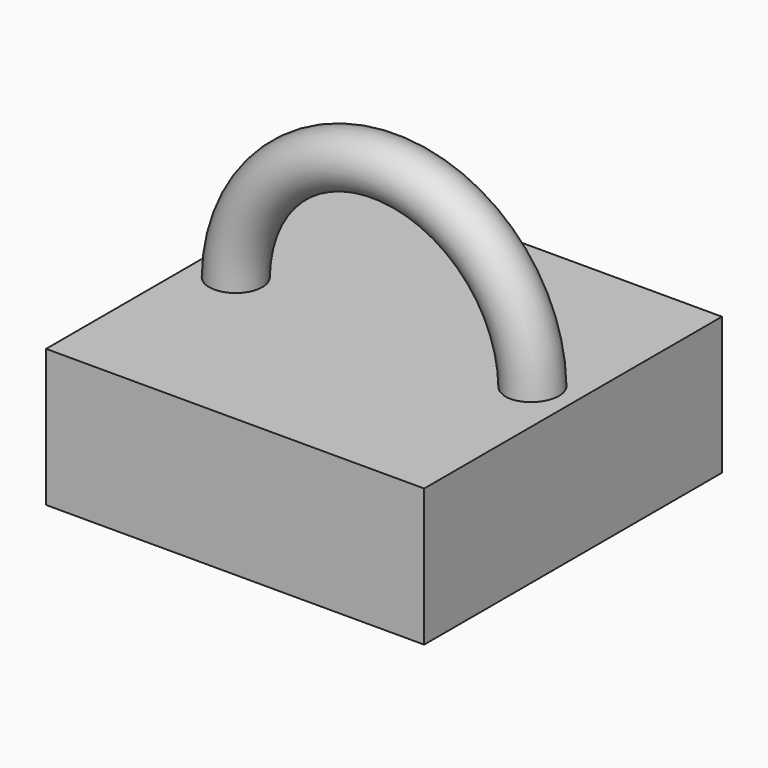
from build123d import *

# Parameters (mm, degrees)
F0_W     = 69.863096
F0_H     = 137.526572
F1_DEPTH = 50.8
F2_R     = 9.824635


with BuildPart() as f1:
    # F0 (on Top) → F1 (new body)
    with BuildSketch(Plane.XY):
        with Locations((-34.931548, 0)):
            Rectangle(F0_W, F0_H)
        with Locations((34.931548, 0)):
            Rectangle(F0_W, F0_H)
    extrude(amount=-F1_DEPTH)

    # F4: sweep along a path in F3
    with BuildLine(Plane.XZ) as f4_path:
        ThreePointArc((54.413196, 0), (-0.209475, 53.852413), (-54.832146, 0))
    # F2 (on face) → F4 (sweep)
    with BuildSketch(Plane.XY):
        with Locations((-55.027995, 0.307959)):
            Circle(F2_R)
    sweep(path=f4_path.line)


solid = f1.part
